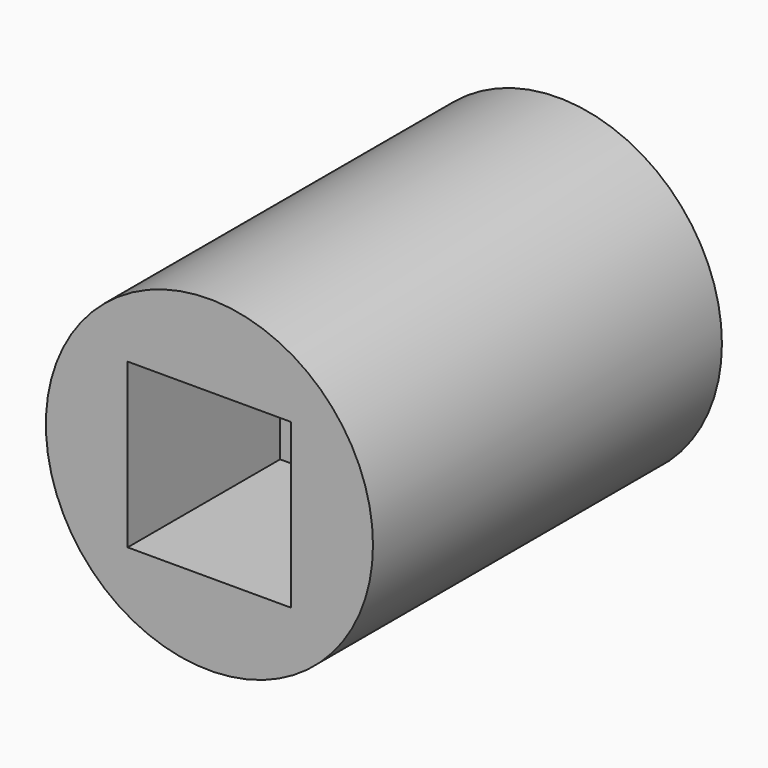
from build123d import *

# Parameters (mm, degrees)
F0_R     = 9.525
F1_DEPTH = 25.4
F3_DEPTH = 25.401
F4_DEPTH = 11.0998
F6_DEPTH = 9.525


with BuildPart() as f1:
    # F0 (on Front) → F1 (new body)
    with BuildSketch(Plane.XZ):
        Circle(F0_R)
    extrude(amount=F1_DEPTH)

    # F2 (on face) → F3 (cut, through all)
    with BuildSketch(Plane.XZ.offset(25.4)):
        with BuildLine():
            ThreePointArc((4.7625, 0), (3.367596, 3.367596), (0, 4.7625))
            ThreePointArc((0, 4.7625), (-3.367596, 3.367596), (-4.7625, 0))
            ThreePointArc((-4.7625, 0), (-3.367596, -3.367596), (0, -4.7625))
            ThreePointArc((0, -4.7625), (3.367596, -3.367596), (4.7625, 0))
        make_face()
    extrude(amount=-F3_DEPTH, mode=Mode.SUBTRACT)

    # F2 (on face) → F4 (cut)
    with BuildSketch(Plane.XZ.offset(25.4)):
        with BuildLine():
            Line((4.7625, 0), (4.7625, 4.7625))
            Line((4.7625, 4.7625), (0, 4.7625))
            ThreePointArc((0, 4.7625), (3.367596, 3.367596), (4.7625, 0))
        make_face()
        with BuildLine():
            ThreePointArc((-4.7625, 0), (-3.367596, 3.367596), (0, 4.7625))
            Line((0, 4.7625), (-4.7625, 4.7625))
            Line((-4.7625, 4.7625), (-4.7625, 0))
        make_face()
        with BuildLine():
            Line((4.7625, -4.7625), (4.7625, 0))
            ThreePointArc((4.7625, 0), (3.367596, -3.367596), (0, -4.7625))
            Line((0, -4.7625), (4.7625, -4.7625))
        make_face()
        with BuildLine():
            ThreePointArc((0, -4.7625), (-3.367596, -3.367596), (-4.7625, 0))
            Line((-4.7625, 0), (-4.7625, -4.7625))
            Line((-4.7625, -4.7625), (0, -4.7625))
        make_face()
    extrude(amount=-F4_DEPTH, mode=Mode.SUBTRACT)

    # F5 (on face) → F6 (cut)
    with BuildSketch(Plane(origin=(0, 0, 0), x_dir=(-1, 0, 0), z_dir=(0, 1, 0))):
        Polygon((6.324151, -3.65125), (6.324151, 3.65125), (0, 7.3025), (-6.324151, 3.65125), (-6.324151, -3.65125), (0, -7.3025), align=None)
    extrude(amount=-F6_DEPTH, mode=Mode.SUBTRACT)


solid = f1.part
